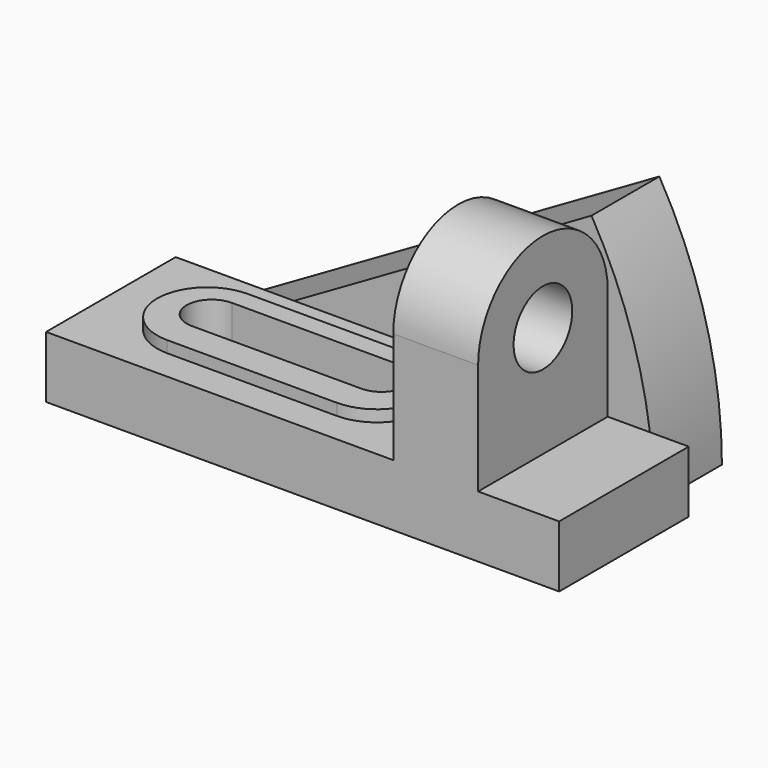
from build123d import *

# Parameters (mm, degrees)
F1_DEPTH  = 42
F3_DEPTH  = 112.001
F2_R      = 9.5
F4_DEPTH  = 112.001
F6_DEPTH  = 3
F8_DEPTH  = 22
F10_DEPTH = 19.001


with BuildPart() as f1:
    # F0 (on Front) → F1 (new body)
    with BuildSketch(Plane.XZ):
        Polygon((-133, 0), (0, 0), (0, 16), (-21, 16), (-21, 66), (-43, 66), (-43, 16), (-133, 16), align=None)
    extrude(amount=F1_DEPTH)

    # F2 (on face) → F3 (cut, through all)
    with BuildSketch(Plane.YZ.offset(-21)):
        with BuildLine():
            Line((-42, 66), (-42, 44.820994))
            ThreePointArc((-42, 44.820994), (-21, 65.820994), (0, 44.820994))
            Line((0, 44.820994), (0, 66))
            Line((0, 66), (-42, 66))
        make_face()
    extrude(amount=-F3_DEPTH, mode=Mode.SUBTRACT)

    # F2 (on face) → F4 (cut, through all)
    with BuildSketch(Plane.YZ.offset(-21)):
        with Locations((-21, 44.820994)):
            Circle(F2_R)
    extrude(amount=-F4_DEPTH, mode=Mode.SUBTRACT)

    # F5 (on face) → F6 (join)
    with BuildSketch(Plane.XY.offset(16)):
        with BuildLine():
            Line((-64, -8), (-108, -8))
            ThreePointArc((-108, -8), (-121, -21), (-108, -34))
            Line((-108, -34), (-64, -34))
            ThreePointArc((-64, -34), (-51, -21), (-64, -8))
        make_face()
    extrude(amount=F6_DEPTH)

    # F7 (on Front) → F8 (join)
    with BuildSketch(Plane.XZ):
        with BuildLine():
            Line((-130, 0), (-9, 0))
            ThreePointArc((-9, 0), (-13.122975, 31.317104), (-25.210926, 60.5))
            Line((-25.210926, 60.5), (-130, 0))
        make_face()
    extrude(amount=-F8_DEPTH)

    # F9 (on face) → F10 (cut, through all)
    with BuildSketch(Plane.XY.offset(19)):
        with BuildLine():
            Line((-64, -13.062797), (-108, -13.062797))
            ThreePointArc((-108, -13.062797), (-114.5, -19.562797), (-108, -26.062797))
            Line((-108, -26.062797), (-64, -26.062797))
            ThreePointArc((-64, -26.062797), (-57.5, -19.562797), (-64, -13.062797))
        make_face()
    extrude(amount=-F10_DEPTH, mode=Mode.SUBTRACT)


solid = f1.part
